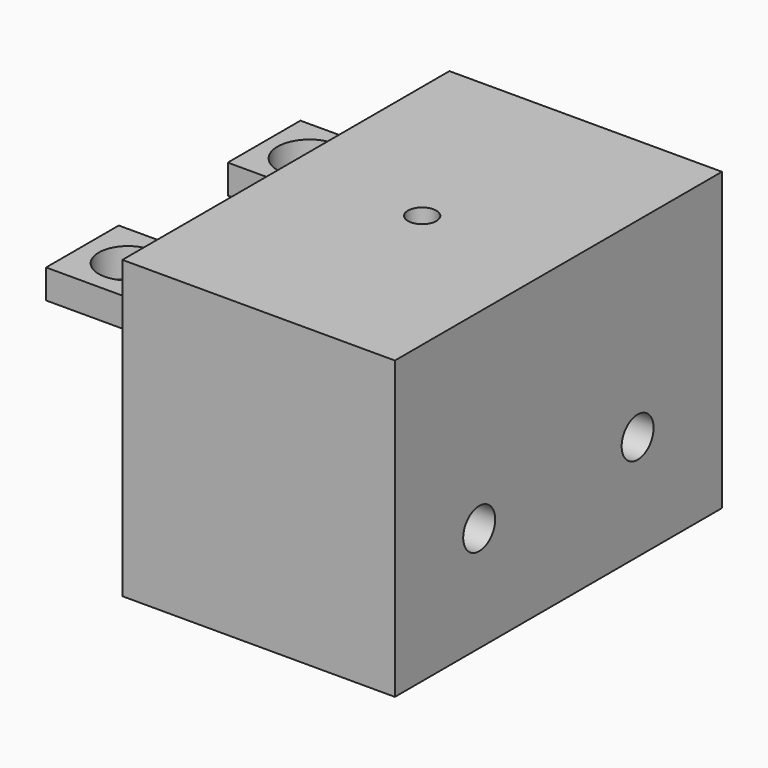
from build123d import *

# Parameters (mm, degrees)
F0_W     = 38.1
F0_H     = 57.15
F1_DEPTH = 41.402
F2_R     = 2.794
F3_DEPTH = 38.101
F4_R     = 1.984375
F5_DEPTH = 25.4
F6_W     = 12.7
F6_H     = 4.064
F7_DEPTH = 15.748
F8_R     = 4.468898
F8_R_2   = 4.064
F9_DEPTH = 32.767


with BuildPart() as f1:
    # F0 (on Top) → F1 (new body)
    with BuildSketch(Plane.XY):
        with Locations((19.05, 28.575)):
            Rectangle(F0_W, F0_H)
    extrude(amount=F1_DEPTH)

    # F2 (on face) → F3 (cut, through all)
    with BuildSketch(Plane.YZ.offset(38.1)):
        with Locations((14.732, 14.732)):
            Circle(F2_R)
        with Locations((42.418, 14.732)):
            Circle(F2_R)
    extrude(amount=-F3_DEPTH, mode=Mode.SUBTRACT)

    # F4 (on face) → F5 (cut)
    with BuildSketch(Plane.XY.offset(41.402)):
        with Locations((19.05, 28.575)):
            Circle(F4_R)
    extrude(amount=-F5_DEPTH, mode=Mode.SUBTRACT)

    # F6 (on face) → F7 (join)
    with BuildSketch(Plane(origin=(0, 0, 0), x_dir=(0, -1, 0), z_dir=(-1, 0, 0))):
        with Locations((-44.45, 30.734)):
            Rectangle(F6_W, F6_H)
        with Locations((-12.7, 30.734)):
            Rectangle(F6_W, F6_H)
    extrude(amount=F7_DEPTH)

    # F8 (on face) → F9 (cut, through all)
    with BuildSketch(Plane.XY.offset(32.766)):
        with Locations((-9.398, 44.45)):
            Circle(F8_R)
        with Locations((-9.398, 12.7)):
            Circle(F8_R_2)
    extrude(amount=-F9_DEPTH, mode=Mode.SUBTRACT)


solid = f1.part
